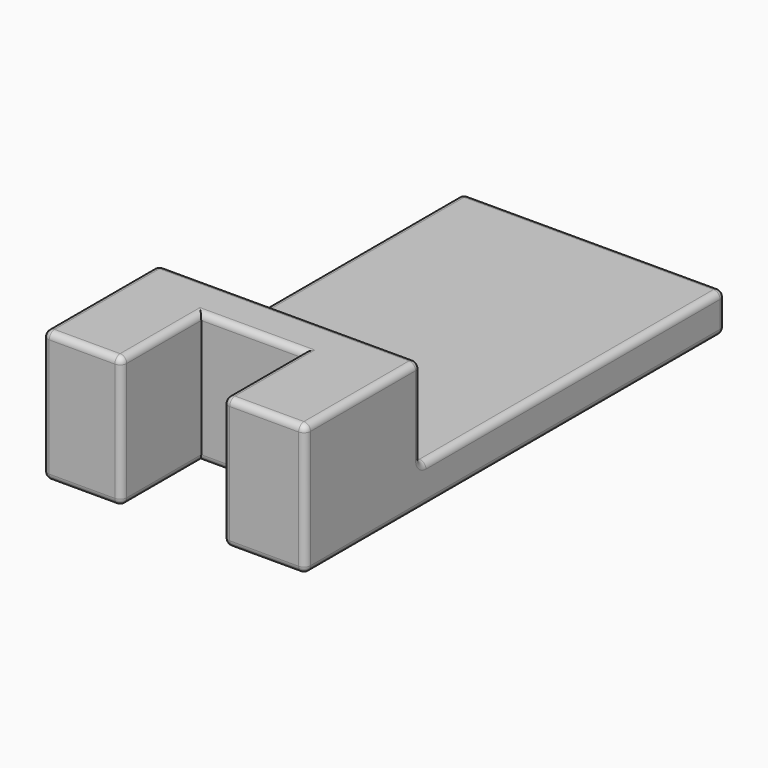
from build123d import *

# Parameters (mm, degrees)
BOX002_W     = 20
BOX002_H     = 30
BOX002_DEPTH = 10
BOX_W        = 7.75
BOX_H        = 7.6
BOX_DEPTH    = 10
BOX001_W     = 20
BOX001_H     = 40
BOX001_DEPTH = 10
FILLET_R     = 0.5


with BuildPart() as cube002:
    # Box002 → Box002 (new body)
    with BuildSketch(Plane(origin=(0, 11, 3), x_dir=(1, 0, 0), z_dir=(0, 0, 1))):
        with Locations((10, 15)):
            Rectangle(BOX002_W, BOX002_H)
    extrude(amount=BOX002_DEPTH)


with BuildPart() as cube:
    # Box → Box (new body)
    with BuildSketch(Plane(origin=(6, 0, 0), x_dir=(1, 0, 0), z_dir=(0, 0, 1))):
        with Locations((3.875, 3.8)):
            Rectangle(BOX_W, BOX_H)
    extrude(amount=BOX_DEPTH)


with BuildPart() as fillet_body:
    # Box001 → Box001 (new body)
    with BuildSketch(Plane.XY):
        with Locations((10, 20)):
            Rectangle(BOX001_W, BOX001_H)
    extrude(amount=BOX001_DEPTH)

    # Cut: cut Cube
    add(cube.part, mode=Mode.SUBTRACT)

    # Cut001: cut Cube002
    add(cube002.part, mode=Mode.SUBTRACT)

    # Fillet
    fillet_edges = [fillet_body.edges().sort_by_distance(p)[0] for p in [
        (0, 5.5, 10),
        (0, 11, 6.5),
        (0, 25.5, 3),
        (0, 40, 1.5),
        (0, 20, 0),
        (0, 0, 5),
        (20, 5.5, 10),
        (16.875, 0, 10),
        (13.75, 3.8, 10),
        (9.875, 7.6, 10),
        (6, 3.8, 10),
        (3, 0, 10),
        (10, 11, 10),
        (20, 11, 6.5),
        (10, 11, 3),
        (10, 40, 3),
        (20, 25.5, 3),
        (20, 40, 1.5),
        (10, 40, 0),
        (20, 20, 0),
        (16.875, 0, 0),
        (13.75, 3.8, 0),
        (9.875, 7.6, 0),
        (6, 3.8, 0),
        (3, 0, 0),
        (6, 0, 5),
        (20, 0, 5),
        (13.75, 0, 5),
    ]]
    fillet(fillet_edges, radius=FILLET_R)


solid = fillet_body.part
